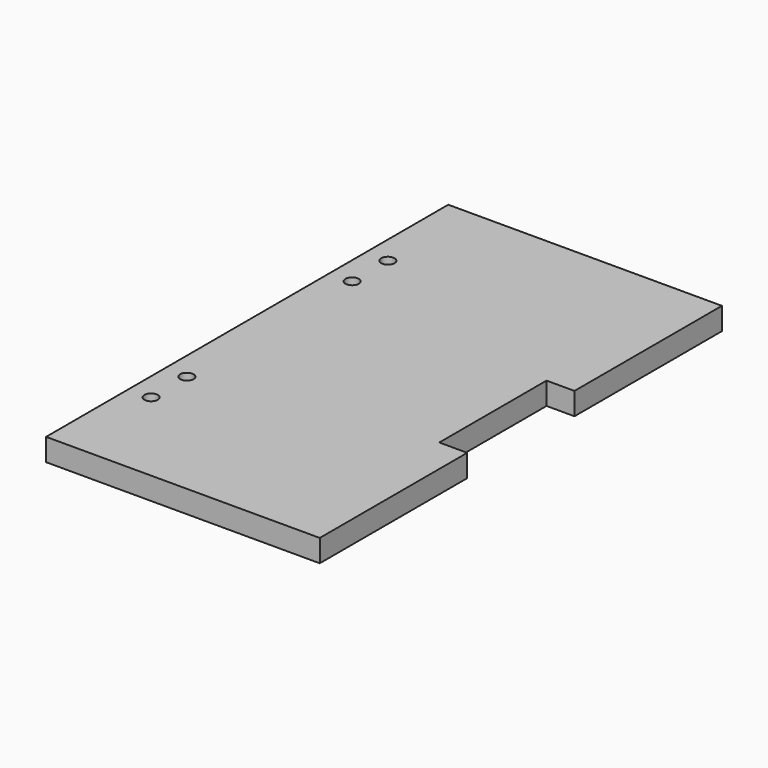
from build123d import *

# Parameters (mm, degrees)
F0_R     = 3.81
F1_DEPTH = 12.7


with BuildPart() as f1:
    # F0 (on Top) → F1 (new body)
    with BuildSketch(Plane.XY):
        Polygon((77.7875, 38.1), (77.7875, 142.875), (-77.7875, 142.875), (-77.7875, 71.4248), (-77.7875, 0), (-77.7875, -71.4248), (-77.7875, -142.875), (77.7875, -142.875), (77.7875, -38.1), (61.9125, -38.1), (61.9125, 38.1), align=None)
        with Locations((-65.0875, -84.1248)):
            Circle(F0_R, mode=Mode.SUBTRACT)
        with Locations((-65.0875, -58.7248)):
            Circle(F0_R, mode=Mode.SUBTRACT)
        with Locations((-65.0875, 58.7248)):
            Circle(F0_R, mode=Mode.SUBTRACT)
        with Locations((-65.0875, 84.1248)):
            Circle(F0_R, mode=Mode.SUBTRACT)
    extrude(amount=F1_DEPTH)


solid = f1.part
